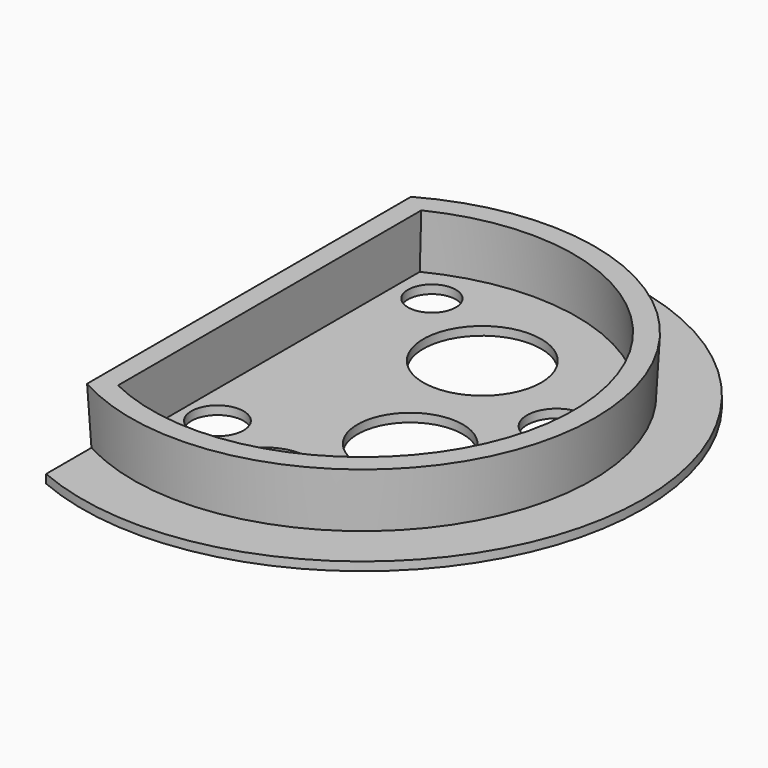
from build123d import *

# Parameters (mm, degrees)
F1_DEPTH = 1.2
F2_DEPTH = 9
F2_TAPER = -3
F0_R     = 5.9300474085
F0_R_2   = 3.6519065509
F0_R_3   = 7.3598691172
F0_R_4   = 8.2465917135
F0_R_5   = 3.349100763
F0_R_6   = 4.1595312384
F3_DEPTH = 1.2


with BuildPart() as f1:
    # F0 (on Top) → F1 (new body)
    with BuildSketch(Plane.XY):
        with BuildLine():
            ThreePointArc((-15.4302030614, 28.0340655897), (32, 0), (-15.4302030614, -28.0340655897))
            Line((-15.4302030614, -28.0340655897), (-15.4302030614, -36.0725488648))
            ThreePointArc((-15.4302030614, -36.0725488648), (39.2341681207, 0), (-15.4302030614, 36.0725488648))
            Line((-15.4302030614, 36.0725488648), (-15.4302030614, 28.0340655897))
        make_face()
    extrude(amount=F1_DEPTH)

    # F0 (on Top) → F2 (join)
    with BuildSketch(Plane.XY):
        with BuildLine():
            Line((-15.4302030614, 28.0340655897), (-15.4302030614, -28.0340655897))
            ThreePointArc((-15.4302030614, -28.0340655897), (32, 0), (-15.4302030614, 28.0340655897))
        make_face()
        with BuildLine():
            ThreePointArc((-13.4883891288, 26.7967042509), (30, 0), (-13.4883891288, -26.7967042509))
            Line((-13.4883891288, -26.7967042509), (-13.4883891288, 26.7967042509))
        make_face(mode=Mode.SUBTRACT)
    extrude(amount=F2_DEPTH, taper=F2_TAPER)

    # F0 (on Top) → F3 (join)
    with BuildSketch(Plane.XY):
        with BuildLine():
            Line((-13.4883891288, 26.7967042509), (-13.4883891288, -26.7967042509))
            ThreePointArc((-13.4883891288, -26.7967042509), (30, 0), (-13.4883891288, 26.7967042509))
        make_face()
        with Locations((3.0684988014, -20.8519827574)):
            Circle(F0_R, mode=Mode.SUBTRACT)
        with Locations((-8.6710527539, -14.5559245721)):
            Circle(F0_R_2, mode=Mode.SUBTRACT)
        with Locations((11.1771188676, -5.6749582291)):
            Circle(F0_R_3, mode=Mode.SUBTRACT)
        with Locations((5.0576031208, 14.5771838725)):
            Circle(F0_R_4, mode=Mode.SUBTRACT)
        with Locations((-8.4421690553, 22.6481538266)):
            Circle(F0_R_5, mode=Mode.SUBTRACT)
        with Locations((21.0598167032, 7.5812428258)):
            Circle(F0_R_6, mode=Mode.SUBTRACT)
    extrude(amount=F3_DEPTH)


solid = f1.part
